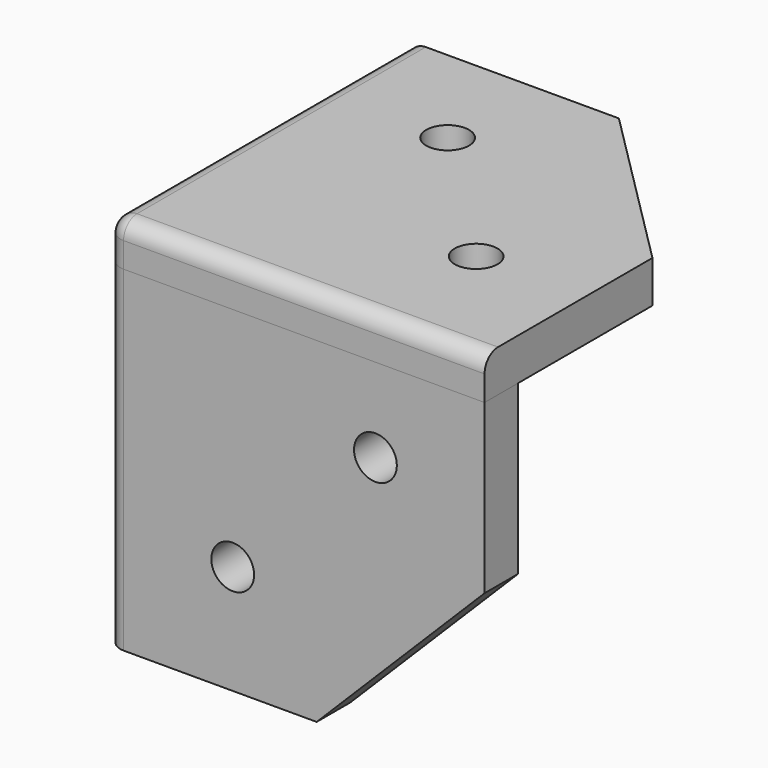
from build123d import *

# Parameters (mm, degrees)
BOX_W           = 45
BOX_H           = 45
BOX_DEPTH       = 5
SKETCH001_R     = 2.55
POCKET_DEPTH    = 5
FILLET_R        = 2
FILLET001_R     = 2
CHAMFER_SIZE    = 20
BOX002_W        = 45
BOX002_H        = 45
BOX002_DEPTH    = 40
BOX001_W        = 45
BOX001_H        = 45
BOX001_DEPTH    = 40
FILLET002_R     = 2
CHAMFER001_SIZE = 20
SKETCH_R        = 2.55
POCKET001_DEPTH = 5
SKETCH002_R     = 2.55
POCKET002_DEPTH = 5


with BuildPart() as chamfer_body:
    # Box → Box (new body)
    with BuildSketch(Plane.XY):
        with Locations((22.5, 22.5)):
            Rectangle(BOX_W, BOX_H)
    extrude(amount=BOX_DEPTH)

    # Sketch001 → Pocket (cut)
    with BuildSketch(Plane(origin=(0, 0, 0), x_dir=(1, 0, 0), z_dir=(0, 0, -1))):
        with Locations((15, -32)):
            Circle(SKETCH001_R)
        with Locations((32, -15)):
            Circle(SKETCH001_R)
    extrude(amount=-POCKET_DEPTH, mode=Mode.SUBTRACT)

    # Fillet
    fillet_edges = [chamfer_body.edges().sort_by_distance(p)[0] for p in [
        (0, 0, 2.5),
    ]]
    fillet(fillet_edges, radius=FILLET_R)

    # Fillet001
    fillet001_edges = [chamfer_body.edges().sort_by_distance(p)[0] for p in [
        (0, 23.5, 5),
        (0.585786, 0.585786, 5),
        (23.5, 0, 5),
    ]]
    fillet(fillet001_edges, radius=FILLET001_R)

    # Chamfer
    chamfer_edges = [chamfer_body.edges().sort_by_distance(p)[0] for p in [
        (45, 45, 2.5),
    ]]
    chamfer(chamfer_edges, length=CHAMFER_SIZE)


with BuildPart() as cube002:
    # Box002 → Box002 (new body)
    with BuildSketch(Plane(origin=(5, 5, -40), x_dir=(1, 0, 0), z_dir=(0, 0, 1))):
        with Locations((22.5, 22.5)):
            Rectangle(BOX002_W, BOX002_H)
    extrude(amount=BOX002_DEPTH)


with BuildPart() as pocket002:
    # Box001 → Box001 (new body)
    with BuildSketch(Plane.XY.offset(-40)):
        with Locations((22.5, 22.5)):
            Rectangle(BOX001_W, BOX001_H)
    extrude(amount=BOX001_DEPTH)

    # Cut: cut Cube002
    add(cube002.part, mode=Mode.SUBTRACT)

    # Fillet002
    fillet002_edges = [pocket002.edges().sort_by_distance(p)[0] for p in [
        (0, 0, -20),
    ]]
    fillet(fillet002_edges, radius=FILLET002_R)

    # Chamfer001
    chamfer001_edges = [pocket002.edges().sort_by_distance(p)[0] for p in [
        (45, 2.5, -40),
        (2.5, 45, -40),
    ]]
    chamfer(chamfer001_edges, length=CHAMFER001_SIZE)

    # Sketch → Pocket001 (cut)
    with BuildSketch(Plane.XZ):
        with Locations((32, -10)):
            Circle(SKETCH_R)
        with Locations((15, -27)):
            Circle(SKETCH_R)
    extrude(amount=-POCKET001_DEPTH, mode=Mode.SUBTRACT)

    # Sketch002 → Pocket002 (cut)
    with BuildSketch(Plane(origin=(0, 0, 0), x_dir=(0, -1, 0), z_dir=(-1, 0, 0))):
        with Locations((-32, -10)):
            Circle(SKETCH002_R)
        with Locations((-15, -27)):
            Circle(SKETCH002_R)
    extrude(amount=-POCKET002_DEPTH, mode=Mode.SUBTRACT)


solid = Compound([chamfer_body.part, pocket002.part])
